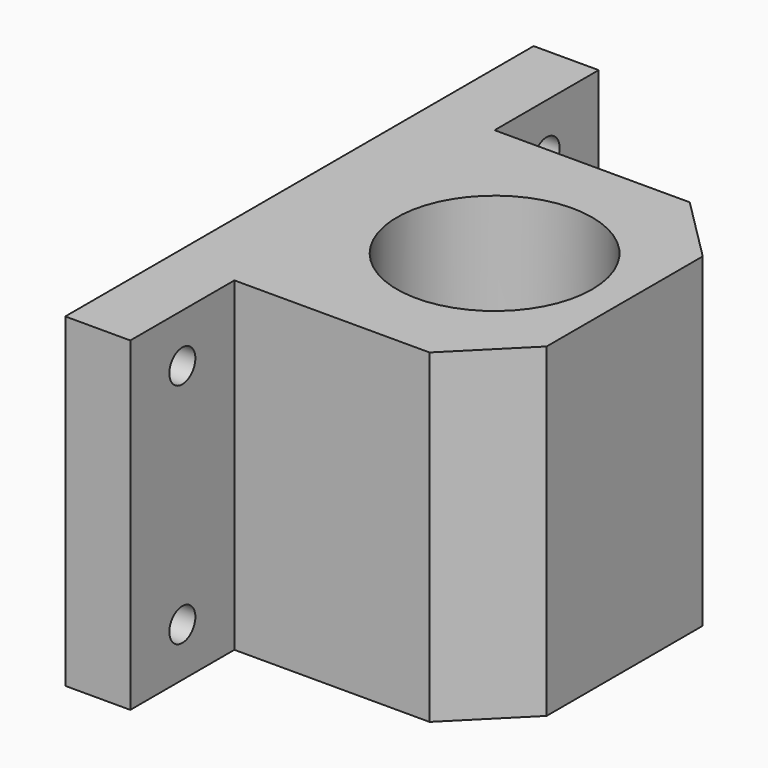
from build123d import *

# Parameters (mm, degrees)
F0_R     = 15
F1_DEPTH = 50
F2_R     = 2.5
F3_DEPTH = 25


with BuildPart() as f1:
    # F0 (on Top) → F1 (new body)
    with BuildSketch(Plane.XY):
        Polygon((0, 25), (0, 45), (-10, 45), (-10, -45), (0, -45), (0, -25), (30, -25), (40, -15), (40, 15), (30, 25), align=None)
        with Locations((20, 0)):
            Circle(F0_R, mode=Mode.SUBTRACT)
    extrude(amount=F1_DEPTH)

    # F2 (on face) → F3 (cut)
    with BuildSketch(Plane.YZ):
        with Locations((-35, 42.5)):
            Circle(F2_R)
        with Locations((-35, 7.5)):
            Circle(F2_R)
        with Locations((35, 7.5)):
            Circle(F2_R)
        with Locations((35, 42.5)):
            Circle(F2_R)
    extrude(amount=-F3_DEPTH, mode=Mode.SUBTRACT)


solid = f1.part
